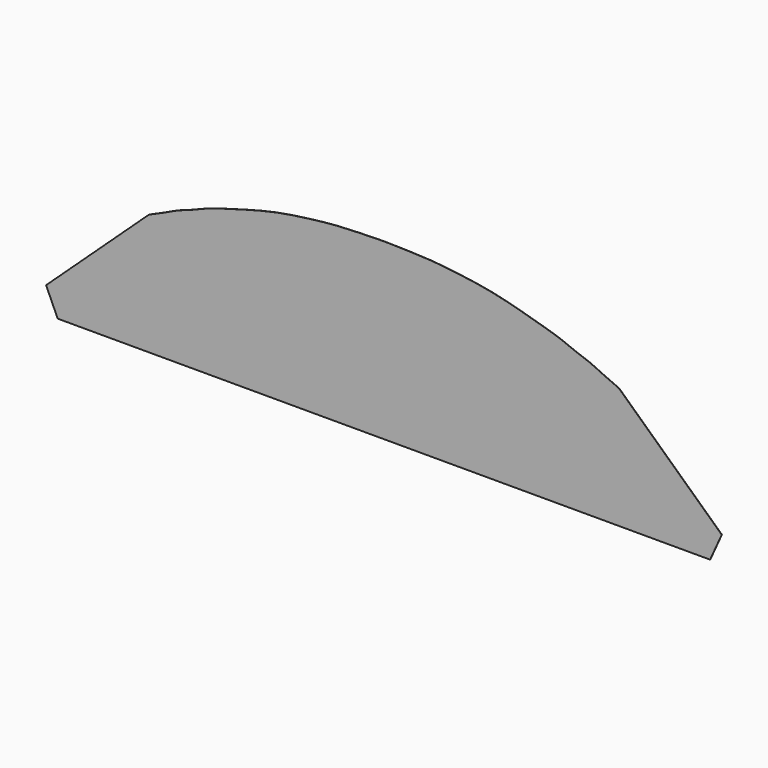
from build123d import *

# Parameters (mm, degrees)
F1_DEPTH = 4


with BuildPart() as f1:
    # F0 (on Front) → F1 (new body)
    with BuildSketch(Plane.XZ):
        Polygon((437.6166, 1535.8491), (0, 1545.9583), (-437.6166, 1535.8491), (-835.914, 1517.9421), (-1082.9798, 1495.5647), (-1329.4614, 1466.2531), (-1622.1456, 1425.9433), (-1912.9248, 1375.1179), (-2184.7302, 1313.2435), (-2454.3766, 1242.0473), (-2877.4898, 1121.4481), (-3021.1522, 1077.6331), (-3162.9604, 1028.5603), (-3285.9726, 979.1319), (-3409.061, 929.7035), (-3527.6536, 887.1585), (-3645.6874, 843.3435), (-3773.9574, 786.3713), (-3900.8304, 725.8685), (-4172.4834, 605.8535), (-5997.5496, -1089.2917), (-5791.0476, -1545.9583), (0, -1545.9583), (5791.0476, -1545.9583), (5997.5496, -1089.2917), (4172.4834, 605.8535), (3900.8304, 725.8685), (3773.9828, 786.3713), (3645.6874, 843.3435), (3527.679, 887.1585), (3409.061, 929.7035), (3285.9726, 979.1319), (3162.9604, 1028.5603), (3021.1522, 1077.6331), (2877.4898, 1121.4481), (2454.3766, 1242.0473), (2184.7302, 1313.2435), (1912.9248, 1375.1179), (1622.1456, 1425.9433), (1329.4614, 1466.2277), (1082.9798, 1495.5647), (835.914, 1517.9421), align=None)
    extrude(amount=F1_DEPTH)


solid = f1.part
